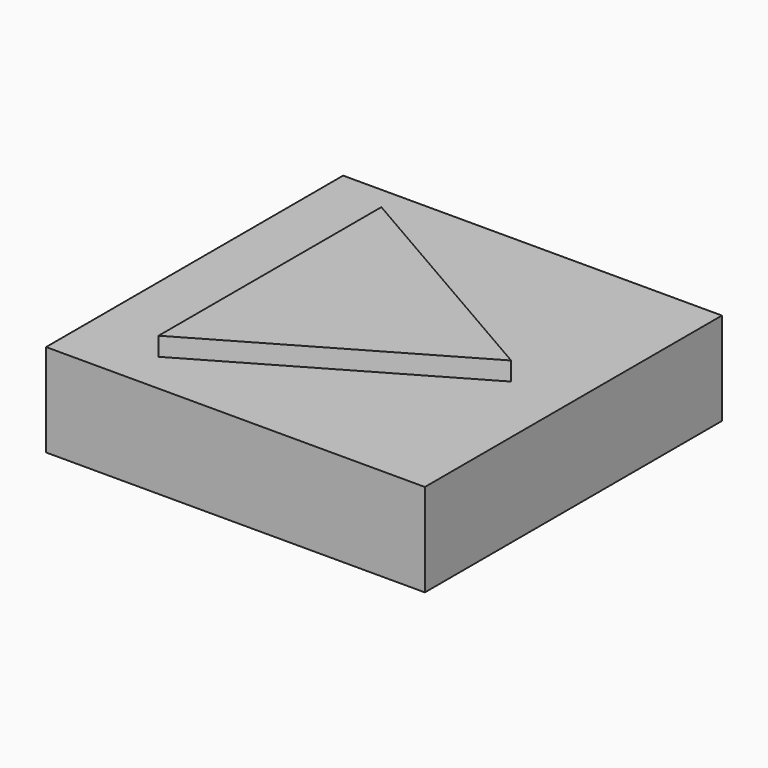
from build123d import *

# Parameters (mm, degrees)
F1_DEPTH = 6
F0_W     = 20.403712
F0_H     = 20
F2_DEPTH = 5


with BuildPart() as f1:
    # F0 (on Top) → F1 (new body)
    with BuildSketch(Plane.XY):
        Polygon((-1.160592, 9.762301), (-14.150973, 17.262301), (-14.150973, 2.262301), align=None)
    extrude(amount=F1_DEPTH)

    # F0 (on Top) → F2 (join)
    with BuildSketch(Plane.XY):
        with Locations((-8.199221, 10)):
            Rectangle(F0_W, F0_H)
        Polygon((-14.150973, 2.262301), (-14.150973, 17.262301), (-1.160592, 9.762301), align=None, mode=Mode.SUBTRACT)
    extrude(amount=F2_DEPTH)


solid = f1.part
